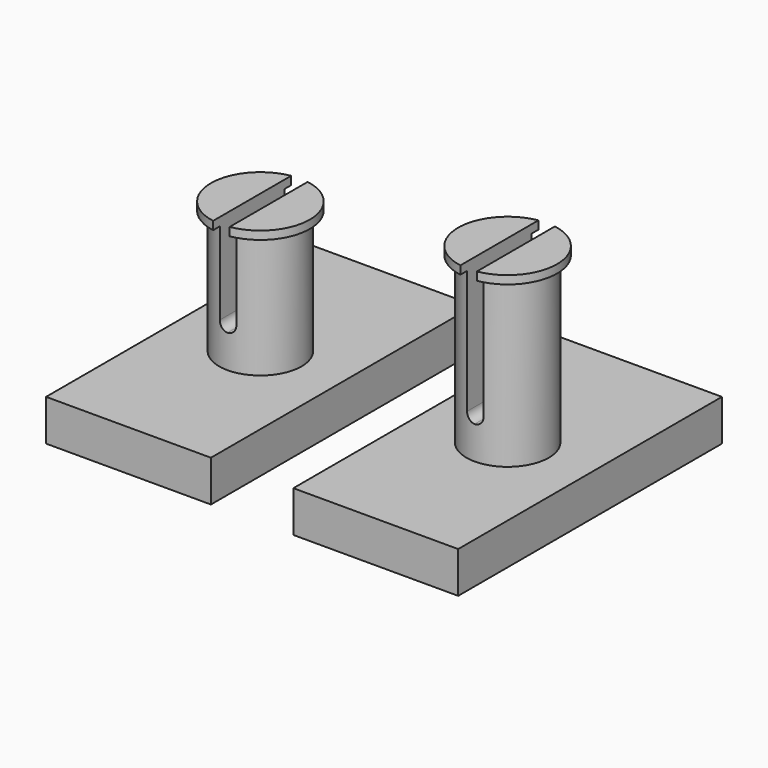
from build123d import *

# Parameters (mm, degrees)
F5_DEPTH      = 25
F5_DEPTH_BACK = 25
F6_W          = 10
F6_H          = 10
F7_DEPTH      = 2.5
F6_H_2        = 20


with BuildPart() as f1:
    # F0 (on Front) → F1 (revolve)
    with BuildSketch(Plane.XZ):
        Polygon((3, 8), (0, 8), (0, 0), (5, 0), (5, 2.5), (2.5, 2.5), (2.5, 7.5), (3, 7.5), align=None)
    revolve(axis=Axis((0, 0, 8.1081883982), (0, 0, 1)))


with BuildPart() as f2:
    # F0 (on Front) → F2 (revolve)
    with BuildSketch(Plane.XZ):
        Polygon((18, 10.5), (15, 10.5), (15, 0), (20, 0), (20, 2.5), (17.5, 2.5), (17.5, 10), (18, 10), align=None)
    revolve(axis=Axis((15, 0, 7.5201606378), (0, 0, 1)))


with BuildPart() as f3:
    # F0 (on Front) → F3 (revolve)
    with BuildSketch(Plane.XZ):
        Polygon((33, 13), (30, 13), (30, 0), (35, 0), (35, 2.5), (32.5, 2.5), (32.5, 12.5), (33, 12.5), align=None)
    revolve(axis=Axis((30, 0, 13.954574092), (0, 0, 1)))


with BuildPart() as f5_tool:
    # F4 (on Front) → F5 (new body, two sides)
    with BuildSketch(Plane.XZ) as f5_sk:
        with BuildLine():
            Line((0.5, 8), (0, 8))
            Line((0, 8), (-0.5, 8))
            Line((-0.5, 8), (-0.5, 5))
            ThreePointArc((-0.5, 5), (-0.3535533906, 4.6464466094), (0, 4.5))
            ThreePointArc((0, 4.5), (0.3535533906, 4.6464466094), (0.5, 5))
            Line((0.5, 5), (0.5, 8))
        make_face()
        with BuildLine():
            Line((15.5, 10.5), (15, 10.5))
            Line((15, 10.5), (14.5, 10.5))
            Line((14.5, 10.5), (14.5, 5))
            ThreePointArc((14.5, 5), (14.6464466094, 4.6464466094), (15, 4.5))
            ThreePointArc((15, 4.5), (15.3535533906, 4.6464466094), (15.5, 5))
            Line((15.5, 5), (15.5, 10.5))
        make_face()
        with BuildLine():
            Line((30.5, 13), (30, 13))
            Line((30, 13), (29.5, 13))
            Line((29.5, 13), (29.5, 5))
            ThreePointArc((29.5, 5), (29.6464466094, 4.6464466094), (30, 4.5))
            ThreePointArc((30, 4.5), (30.3535533906, 4.6464466094), (30.5, 5))
            Line((30.5, 5), (30.5, 13))
        make_face()
    extrude(amount=-F5_DEPTH)
    extrude(f5_sk.sketch, amount=F5_DEPTH_BACK)


with BuildPart() as f1_1:
    add(f1.part)

    # F5: cut by f5_tool
    add(f5_tool.part, mode=Mode.SUBTRACT)

    # F6 (on face) → F7 (join, through all)
    with BuildSketch(Plane(origin=(0, 0, 0), x_dir=(1, 0, 0), z_dir=(0, 0, -1))):
        Rectangle(F6_W, F6_H)
    extrude(amount=-F7_DEPTH)


with BuildPart() as f2_1:
    add(f2.part)

    # F5: cut by f5_tool
    add(f5_tool.part, mode=Mode.SUBTRACT)

    # F6 (on face) → F7, piece 2 (join, through all)
    with BuildSketch(Plane(origin=(0, 0, 0), x_dir=(1, 0, 0), z_dir=(0, 0, -1))):
        with Locations((15, 0)):
            Rectangle(F6_W, F6_H_2)
    extrude(amount=-F7_DEPTH)


with BuildPart() as f3_1:
    add(f3.part)

    # F5: cut by f5_tool
    add(f5_tool.part, mode=Mode.SUBTRACT)

    # F6 (on face) → F7, piece 3 (join, through all)
    with BuildSketch(Plane(origin=(0, 0, 0), x_dir=(1, 0, 0), z_dir=(0, 0, -1))):
        with Locations((30, 0)):
            Rectangle(F6_W, F6_H_2)
    extrude(amount=-F7_DEPTH)


solid = Compound([f2_1.part, f3_1.part])
